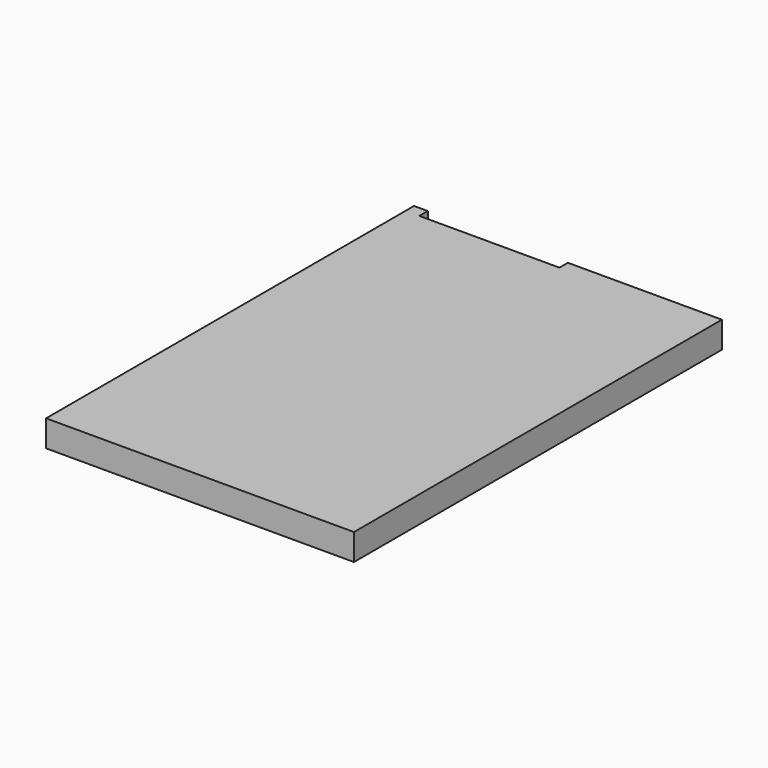
from build123d import *

# Parameters (mm, degrees)
F1_DEPTH = 31.75
F2_R     = 4.7625
F3_DEPTH = 19.05


with BuildPart() as f1:
    # F0 (on Top) → F1 (new body)
    with BuildSketch(Plane.XY):
        Polygon((184.912, -276.225), (184.912, 276.225), (-0.127, 276.225), (-0.127, 263.525), (-168.402, 263.525), (-168.402, 276.225), (-184.912, 276.225), (-184.912, -276.225), align=None)
    extrude(amount=F1_DEPTH)

    # F2 (on face) → F3 (cut)
    with BuildSketch(Plane(origin=(0, 263.525, 0), x_dir=(-1, 0, 0), z_dir=(0, 1, 0))):
        with Locations((117.602, 19.05)):
            Circle(F2_R)
        with Locations((66.802, 19.05)):
            Circle(F2_R)
        with Locations((16.002, 19.05)):
            Circle(F2_R)
    extrude(amount=-F3_DEPTH, mode=Mode.SUBTRACT)


solid = f1.part
